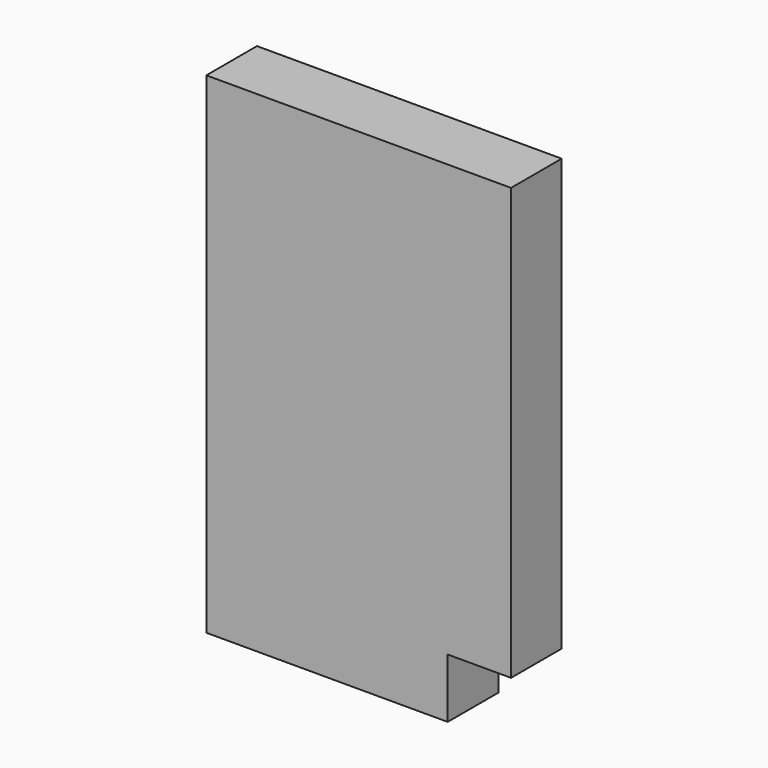
from build123d import *

# Parameters (mm, degrees)
BOX003013002_W     = 122
BOX003013002_H     = 32
BOX003013002_DEPTH = 30
BOX003013_W        = 154
BOX003013_H        = 32
BOX003013_DEPTH    = 218


with BuildPart() as obj1:
    # Box003013002 → Box003013002 (new body)
    with BuildSketch(Plane(origin=(184, -32, -340), x_dir=(1, 0, 0), z_dir=(0, 0, 1))):
        with Locations((61, 16)):
            Rectangle(BOX003013002_W, BOX003013002_H)
    extrude(amount=BOX003013002_DEPTH)


with BuildPart() as obj2:
    # Box003013 → Box003013 (new body)
    with BuildSketch(Plane(origin=(184, -32, -310), x_dir=(1, 0, 0), z_dir=(0, 0, 1))):
        with Locations((77, 16)):
            Rectangle(BOX003013_W, BOX003013_H)
    extrude(amount=BOX003013_DEPTH)

    # Fusion011006: union obj1
    add(obj1.part)


solid = obj2.part
